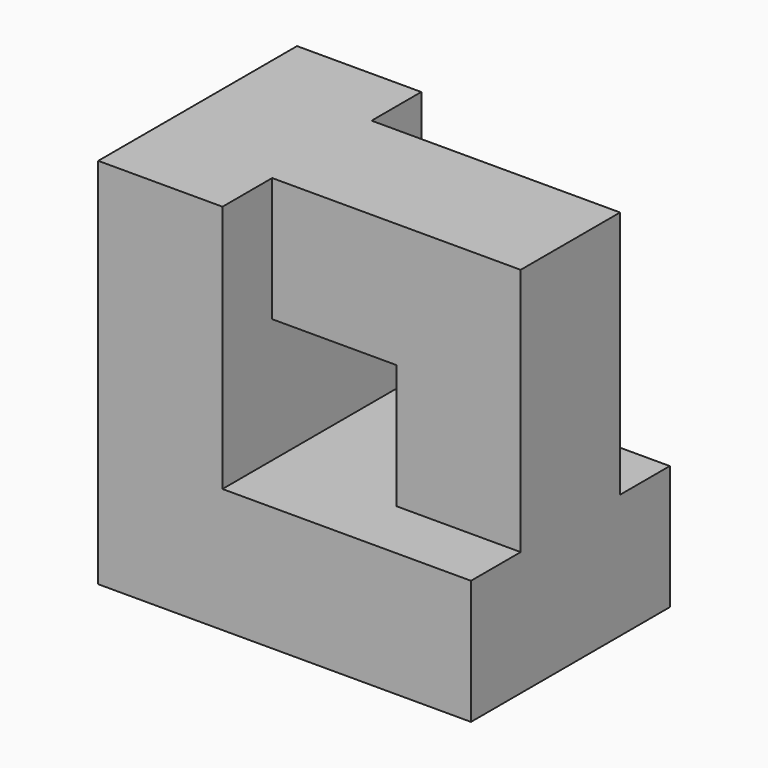
from build123d import *

# Parameters (mm, degrees)
F1_DEPTH = 20
F2_DEPTH = 10


with BuildPart() as f1:
    # F0 (on Front) → F1 (new body, symmetric)
    with BuildSketch(Plane.XZ):
        Polygon((0, 60), (0, 0), (60, 0), (60, 20), (40, 20), (20, 20), (20, 40), (20, 60), align=None)
    extrude(amount=F1_DEPTH, both=True)

    # F0 (on Front) → F2 (join, symmetric)
    with BuildSketch(Plane.XZ):
        Polygon((0, 60), (0, 0), (60, 0), (60, 20), (40, 20), (20, 20), (20, 40), (20, 60), align=None)
        Polygon((60, 60), (20, 60), (20, 40), (40, 40), (40, 20), (60, 20), align=None)
    extrude(amount=F2_DEPTH, both=True)


solid = f1.part
